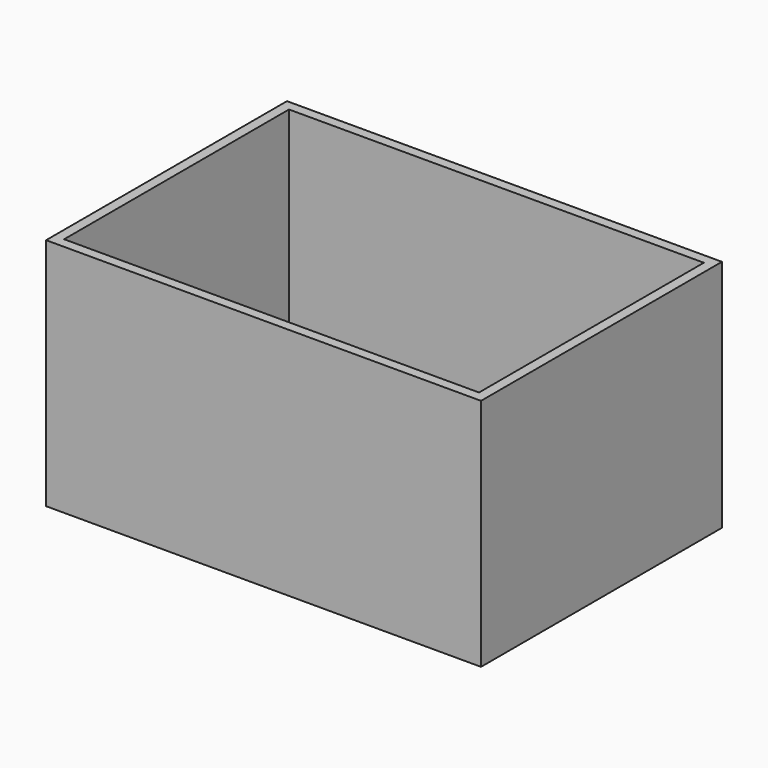
from build123d import *

# Parameters (mm, degrees)
F0_W     = 130
F0_H     = 90
F1_DEPTH = 70
F2_DEPTH = 13
F3_DEPTH = 5
F4_DEPTH = 2


with BuildPart() as f1:
    # F0 (on Top) → F1 (new body)
    with BuildSketch(Plane.XY):
        with Locations((-0.0516974905, 0.1362216124)):
            Rectangle(F0_W, F0_H)
        Polygon((-62.0516974905, 42.1362216124), (0, 42.1362216124), (61.9483025095, 42.1362216124), (61.9483025095, -41.8637783876), (-62.0516974905, -41.8637783876), align=None, mode=Mode.SUBTRACT)
    extrude(amount=F1_DEPTH)

    # F0 (on Top) → F2 (join)
    with BuildSketch(Plane.XY):
        Polygon((61.9483025095, 42.1362216124), (0, 42.1362216124), (-62.0516974905, 42.1362216124), (-62.0516974905, -41.8637783876), (61.9483025095, -41.8637783876), align=None)
        with BuildLine():
            Line((54.9483025095, 35.1362216124), (54.9483025095, -34.8637783876))
            Line((54.9483025095, -34.8637783876), (-55.0516974905, -34.8637783876))
            Line((-55.0516974905, -34.8637783876), (-55.0516974905, 35.1362216124))
            Line((-55.0516974905, 35.1362216124), (-4.0516974905, 35.1362216124))
            ThreePointArc((-4.0516974905, 35.1362216124), (-2.8696610752, 37.9750737105), (-0.022156873, 39.1361125299))
            ThreePointArc((-0.022156873, 39.1361125299), (2.7871546076, 37.9541851971), (3.9483025095, 35.1362216124))
            Line((3.9483025095, 35.1362216124), (54.9483025095, 35.1362216124))
        make_face(mode=Mode.SUBTRACT)
    extrude(amount=F2_DEPTH)

    # F0 (on Top) → F3 (join)
    with BuildSketch(Plane.XY):
        Polygon((-55.0516974905, -34.8637783876), (54.9483025095, -34.8637783876), (54.9483025095, 35.1362216124), (3.9483025095, 35.1362216124), (-0.0516974905, 35.1362216124), (-4.0516974905, 35.1362216124), (-55.0516974905, 35.1362216124), align=None)
        with BuildLine():
            ThreePointArc((-0.022156873, 39.1361125299), (-2.8696610752, 37.9750737105), (-4.0516974905, 35.1362216124))
            Line((-4.0516974905, 35.1362216124), (-0.0516974905, 35.1362216124))
            Line((-0.0516974905, 35.1362216124), (-0.022156873, 39.1361125299))
        make_face()
        with BuildLine():
            Line((-0.0516974905, 35.1362216124), (3.9483025095, 35.1362216124))
            ThreePointArc((3.9483025095, 35.1362216124), (2.7871546076, 37.9541851971), (-0.022156873, 39.1361125299))
            Line((-0.022156873, 39.1361125299), (-0.0516974905, 35.1362216124))
        make_face()
    extrude(amount=F3_DEPTH)


with BuildPart() as f4:
    # F4 (new): faces of the model
    f4_faces = [f1.part.faces().sort_by_distance(p)[0] for p in [
        (-29.5516974905, 35.1362216124, 9),
        (-0.0516974905, -34.8637783876, 9),
        (29.4483025095, 35.1362216124, 9),
    ]]
    extrude(f4_faces, amount=F4_DEPTH, dir=(0, -1, 0))


solid = Compound([f1.part, f4.part])
